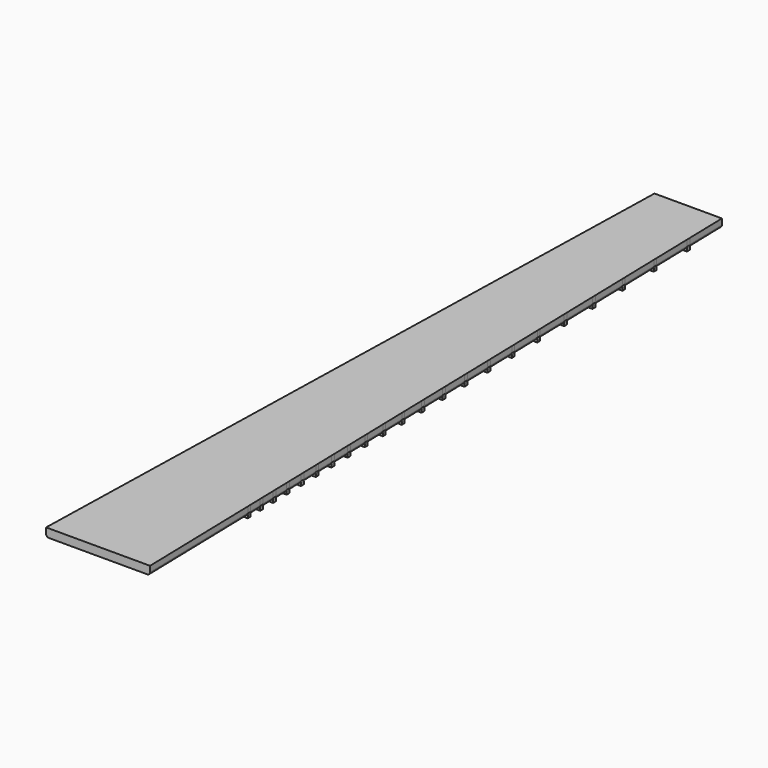
from build123d import *

# Parameters (mm, degrees)
F1_DEPTH = 6
F2_DEPTH = 1.5
F3_R     = 2
F5_R     = 1
F5_2_R   = 1
F5_3_R   = 1
F5_4_R   = 1
F5_5_R   = 1
F5_6_R   = 1
F5_7_R   = 1
F5_8_R   = 1
F5_9_R   = 1
F5_10_R  = 1
F5_11_R  = 1
F5_12_R  = 1
F5_13_R  = 1
F5_14_R  = 1
F5_15_R  = 1
F5_16_R  = 1
F5_17_R  = 1
F5_18_R  = 1
F5_19_R  = 1
F5_20_R  = 1
F5_21_R  = 1
F5_22_R  = 1


with BuildPart() as f1:
    # F0 (on Top) → F1 (new body)
    with BuildSketch(Plane.XY):
        Polygon((24, 525), (0, 525), (-24, 525), (-24.7296342857, 495.534), (0, 495.534), (24.7296342857, 495.534), align=None)
        Polygon((0, 495.534), (-24.7296342857, 495.534), (-24.794416381, 492.9178), (0, 492.9178), (24.794416381, 492.9178), (24.7296342857, 495.534), align=None)
        Polygon((0, 492.9178), (-24.794416381, 492.9178), (-25.4830944762, 465.1058), (0, 465.1058), (25.4830944762, 465.1058), (24.794416381, 492.9178), align=None)
        Polygon((0, 465.1058), (-25.4830944762, 465.1058), (-25.5478765714, 462.4896), (0, 462.4896), (25.5478765714, 462.4896), (25.4830944762, 465.1058), align=None)
        Polygon((0, 462.4896), (-25.5478765714, 462.4896), (-26.1979013333, 436.2386), (0, 436.2386), (26.1979013333, 436.2386), (25.5478765714, 462.4896), align=None)
        Polygon((0, 436.2386), (-26.1979013333, 436.2386), (-26.2626834286, 433.6224), (0, 433.6224), (26.2626834286, 433.6224), (26.1979013333, 436.2386), align=None)
        Polygon((0, 433.6224), (-26.2626834286, 433.6224), (-26.8762339048, 408.8444), (0, 408.8444), (26.8762339048, 408.8444), (26.2626834286, 433.6224), align=None)
        Polygon((0, 408.8444), (-26.8762339048, 408.8444), (-26.941016, 406.2282), (0, 406.2282), (26.941016, 406.2282), (26.8762339048, 408.8444), align=None)
        Polygon((0, 406.2282), (-26.941016, 406.2282), (-27.5201226667, 382.8412), (0, 382.8412), (27.5201226667, 382.8412), (26.941016, 406.2282), align=None)
        Polygon((0, 382.8412), (-27.5201226667, 382.8412), (-27.5849047619, 380.225), (0, 380.225), (27.5849047619, 380.225), (27.5201226667, 382.8412), align=None)
        Polygon((0, 380.225), (-27.5849047619, 380.225), (-28.1315238095, 358.15), (0, 358.15), (28.1315238095, 358.15), (27.5849047619, 380.225), align=None)
        Polygon((0, 358.15), (-28.1315238095, 358.15), (-28.1963059048, 355.5338), (0, 355.5338), (28.1963059048, 355.5338), (28.1315238095, 358.15), align=None)
        Polygon((0, 355.5338), (-28.1963059048, 355.5338), (-28.7122449524, 334.6978), (0, 334.6978), (28.7122449524, 334.6978), (28.1963059048, 355.5338), align=None)
        Polygon((0, 334.6978), (-28.7122449524, 334.6978), (-28.7770270476, 332.0816), (0, 332.0816), (28.7770270476, 332.0816), (28.7122449524, 334.6978), align=None)
        Polygon((0, 332.0816), (-28.7770270476, 332.0816), (-29.2639946667, 312.4156), (0, 312.4156), (29.2639946667, 312.4156), (28.7770270476, 332.0816), align=None)
        Polygon((0, 312.4156), (-29.2639946667, 312.4156), (-29.3287767619, 309.7994), (0, 309.7994), (29.3287767619, 309.7994), (29.2639946667, 312.4156), align=None)
        Polygon((0, 309.7994), (-29.3287767619, 309.7994), (-29.7884072381, 291.2374), (0, 291.2374), (29.7884072381, 291.2374), (29.3287767619, 309.7994), align=None)
        Polygon((0, 291.2374), (-29.7884072381, 291.2374), (-29.8531893333, 288.6212), (0, 288.6212), (29.8531893333, 288.6212), (29.7884072381, 291.2374), align=None)
        Polygon((0, 288.6212), (-29.8531893333, 288.6212), (-30.2870426667, 271.1002), (0, 271.1002), (30.2870426667, 271.1002), (29.8531893333, 288.6212), align=None)
        Polygon((0, 271.1002), (-30.2870426667, 271.1002), (-30.3518247619, 268.484), (0, 268.484), (30.3518247619, 268.484), (30.2870426667, 271.1002), align=None)
        Polygon((0, 268.484), (-30.3518247619, 268.484), (-30.761312381, 251.947), (0, 251.947), (30.761312381, 251.947), (30.3518247619, 268.484), align=None)
        Polygon((0, 251.947), (-30.761312381, 251.947), (-30.8260895238, 249.331), (0, 249.331), (30.8260895238, 249.331), (30.761312381, 251.947), align=None)
        Polygon((0, 249.331), (-30.8260895238, 249.331), (-31.2125980952, 233.722), (0, 233.722), (31.2125980952, 233.722), (30.8260895238, 249.331), align=None)
        Polygon((0, 233.722), (-31.2125980952, 233.722), (-31.2773801905, 231.1058), (0, 231.1058), (31.2773801905, 231.1058), (31.2125980952, 233.722), align=None)
        Polygon((0, 231.1058), (-31.2773801905, 231.1058), (-31.6421973333, 216.3728), (0, 216.3728), (31.6421973333, 216.3728), (31.2773801905, 231.1058), align=None)
        Polygon((0, 216.3728), (-31.6421973333, 216.3728), (-31.7069794286, 213.7566), (0, 213.7566), (31.7069794286, 213.7566), (31.6421973333, 216.3728), align=None)
        Polygon((0, 213.7566), (-31.7069794286, 213.7566), (-32.0513184762, 199.8506), (0, 199.8506), (32.0513184762, 199.8506), (31.7069794286, 213.7566), align=None)
        Polygon((0, 199.8506), (-32.0513184762, 199.8506), (-32.1161005714, 197.2344), (0, 197.2344), (32.1161005714, 197.2344), (32.0513184762, 199.8506), align=None)
        Polygon((0, 197.2344), (-32.1161005714, 197.2344), (-32.4411253333, 184.1084), (0, 184.1084), (32.4411253333, 184.1084), (32.1161005714, 197.2344), align=None)
        Polygon((0, 184.1084), (-32.4411253333, 184.1084), (-32.5059024762, 181.4924), (0, 181.4924), (32.5059024762, 181.4924), (32.4411253333, 184.1084), align=None)
        Polygon((0, 181.4924), (-32.5059024762, 181.4924), (-32.8126777143, 169.1034), (0, 169.1034), (32.8126777143, 169.1034), (32.5059024762, 181.4924), align=None)
        Polygon((0, 169.1034), (-32.8126777143, 169.1034), (-32.8774548571, 166.4874), (0, 166.4874), (32.8774548571, 166.4874), (32.8126777143, 169.1034), align=None)
        Polygon((0, 166.4874), (-32.8774548571, 166.4874), (-33.1669958095, 154.7944), (0, 154.7944), (33.1669958095, 154.7944), (32.8774548571, 166.4874), align=None)
        Polygon((0, 154.7944), (-33.1669958095, 154.7944), (-33.2317729524, 152.1784), (0, 152.1784), (33.2317729524, 152.1784), (33.1669958095, 154.7944), align=None)
        Polygon((0, 152.1784), (-33.2317729524, 152.1784), (-33.5050700952, 141.1414), (0, 141.1414), (33.5050700952, 141.1414), (33.2317729524, 152.1784), align=None)
        Polygon((0, 141.1414), (-33.5050700952, 141.1414), (-33.5698472381, 138.5254), (0, 138.5254), (33.5698472381, 138.5254), (33.5050700952, 141.1414), align=None)
        Polygon((0, 138.5254), (-33.5698472381, 138.5254), (-33.8278167619, 128.1074), (0, 128.1074), (33.8278167619, 128.1074), (33.5698472381, 138.5254), align=None)
        Polygon((0, 128.1074), (-33.8278167619, 128.1074), (-33.8925939048, 125.4914), (0, 125.4914), (33.8925939048, 125.4914), (33.8278167619, 128.1074), align=None)
        Polygon((0, 125.4914), (-33.8925939048, 125.4914), (-34.1360777143, 115.6584), (0, 115.6584), (34.1360777143, 115.6584), (33.8925939048, 125.4914), align=None)
        Polygon((0, 115.6584), (-34.1360777143, 115.6584), (-34.2008548571, 113.0424), (0, 113.0424), (34.2008548571, 113.0424), (34.1360777143, 115.6584), align=None)
        Polygon((0, 113.0424), (-34.2008548571, 113.0424), (-34.4306948571, 103.7604), (0, 103.7604), (34.4306948571, 103.7604), (34.2008548571, 113.0424), align=None)
        Polygon((0, 103.7604), (-34.4306948571, 103.7604), (-34.495472, 101.1444), (0, 101.1444), (34.495472, 101.1444), (34.4306948571, 103.7604), align=None)
        Polygon((0, 101.1444), (-34.495472, 101.1444), (-34.7123862857, 92.3844), (0, 92.3844), (34.7123862857, 92.3844), (34.495472, 101.1444), align=None)
        Polygon((0, 92.3844), (-34.7123862857, 92.3844), (-34.7771634286, 89.7684), (0, 89.7684), (34.7771634286, 89.7684), (34.7123862857, 92.3844), align=None)
        Polygon((0, 89.7684), (-34.7771634286, 89.7684), (-37, 0), (0, 0), (37, 0), (34.7771634286, 89.7684), align=None)
    extrude(amount=F1_DEPTH)

    # F3
    f3_edges = [f1.edges().sort_by_distance(p)[0] for p in [
        (-30.5, 262.5, 0),
        (30.5, 262.5, 0),
    ]]
    fillet(f3_edges, radius=F3_R)


with BuildPart() as f2:
    # F0 (on Top) → F2 (new body, symmetric)
    with BuildSketch(Plane.XY):
        Polygon((0, 495.534), (-24.7296342857, 495.534), (-24.794416381, 492.9178), (0, 492.9178), (24.794416381, 492.9178), (24.7296342857, 495.534), align=None)
    extrude(amount=F2_DEPTH, both=True)


with BuildPart() as f2b:
    # F0 (on Top) → F2, piece 2 (new body, symmetric)
    with BuildSketch(Plane.XY):
        Polygon((0, 465.1058), (-25.4830944762, 465.1058), (-25.5478765714, 462.4896), (0, 462.4896), (25.5478765714, 462.4896), (25.4830944762, 465.1058), align=None)
    extrude(amount=F2_DEPTH, both=True)


with BuildPart() as f2c:
    # F0 (on Top) → F2, piece 3 (new body, symmetric)
    with BuildSketch(Plane.XY):
        Polygon((0, 436.2386), (-26.1979013333, 436.2386), (-26.2626834286, 433.6224), (0, 433.6224), (26.2626834286, 433.6224), (26.1979013333, 436.2386), align=None)
    extrude(amount=F2_DEPTH, both=True)


with BuildPart() as f2d:
    # F0 (on Top) → F2, piece 4 (new body, symmetric)
    with BuildSketch(Plane.XY):
        Polygon((0, 408.8444), (-26.8762339048, 408.8444), (-26.941016, 406.2282), (0, 406.2282), (26.941016, 406.2282), (26.8762339048, 408.8444), align=None)
    extrude(amount=F2_DEPTH, both=True)


with BuildPart() as f2e:
    # F0 (on Top) → F2, piece 5 (new body, symmetric)
    with BuildSketch(Plane.XY):
        Polygon((0, 382.8412), (-27.5201226667, 382.8412), (-27.5849047619, 380.225), (0, 380.225), (27.5849047619, 380.225), (27.5201226667, 382.8412), align=None)
    extrude(amount=F2_DEPTH, both=True)


with BuildPart() as f2f:
    # F0 (on Top) → F2, piece 6 (new body, symmetric)
    with BuildSketch(Plane.XY):
        Polygon((0, 358.15), (-28.1315238095, 358.15), (-28.1963059048, 355.5338), (0, 355.5338), (28.1963059048, 355.5338), (28.1315238095, 358.15), align=None)
    extrude(amount=F2_DEPTH, both=True)


with BuildPart() as f2g:
    # F0 (on Top) → F2, piece 7 (new body, symmetric)
    with BuildSketch(Plane.XY):
        Polygon((0, 334.6978), (-28.7122449524, 334.6978), (-28.7770270476, 332.0816), (0, 332.0816), (28.7770270476, 332.0816), (28.7122449524, 334.6978), align=None)
    extrude(amount=F2_DEPTH, both=True)


with BuildPart() as f2h:
    # F0 (on Top) → F2, piece 8 (new body, symmetric)
    with BuildSketch(Plane.XY):
        Polygon((0, 312.4156), (-29.2639946667, 312.4156), (-29.3287767619, 309.7994), (0, 309.7994), (29.3287767619, 309.7994), (29.2639946667, 312.4156), align=None)
    extrude(amount=F2_DEPTH, both=True)


with BuildPart() as f2i:
    # F0 (on Top) → F2, piece 9 (new body, symmetric)
    with BuildSketch(Plane.XY):
        Polygon((0, 291.2374), (-29.7884072381, 291.2374), (-29.8531893333, 288.6212), (0, 288.6212), (29.8531893333, 288.6212), (29.7884072381, 291.2374), align=None)
    extrude(amount=F2_DEPTH, both=True)


with BuildPart() as f2j:
    # F0 (on Top) → F2, piece 10 (new body, symmetric)
    with BuildSketch(Plane.XY):
        Polygon((0, 271.1002), (-30.2870426667, 271.1002), (-30.3518247619, 268.484), (0, 268.484), (30.3518247619, 268.484), (30.2870426667, 271.1002), align=None)
    extrude(amount=F2_DEPTH, both=True)


with BuildPart() as f2k:
    # F0 (on Top) → F2, piece 11 (new body, symmetric)
    with BuildSketch(Plane.XY):
        Polygon((0, 251.947), (-30.761312381, 251.947), (-30.8260895238, 249.331), (0, 249.331), (30.8260895238, 249.331), (30.761312381, 251.947), align=None)
    extrude(amount=F2_DEPTH, both=True)


with BuildPart() as f2l:
    # F0 (on Top) → F2, piece 12 (new body, symmetric)
    with BuildSketch(Plane.XY):
        Polygon((0, 233.722), (-31.2125980952, 233.722), (-31.2773801905, 231.1058), (0, 231.1058), (31.2773801905, 231.1058), (31.2125980952, 233.722), align=None)
    extrude(amount=F2_DEPTH, both=True)


with BuildPart() as f2m:
    # F0 (on Top) → F2, piece 13 (new body, symmetric)
    with BuildSketch(Plane.XY):
        Polygon((0, 216.3728), (-31.6421973333, 216.3728), (-31.7069794286, 213.7566), (0, 213.7566), (31.7069794286, 213.7566), (31.6421973333, 216.3728), align=None)
    extrude(amount=F2_DEPTH, both=True)


with BuildPart() as f2n:
    # F0 (on Top) → F2, piece 14 (new body, symmetric)
    with BuildSketch(Plane.XY):
        Polygon((0, 199.8506), (-32.0513184762, 199.8506), (-32.1161005714, 197.2344), (0, 197.2344), (32.1161005714, 197.2344), (32.0513184762, 199.8506), align=None)
    extrude(amount=F2_DEPTH, both=True)


with BuildPart() as f2o:
    # F0 (on Top) → F2, piece 15 (new body, symmetric)
    with BuildSketch(Plane.XY):
        Polygon((0, 184.1084), (-32.4411253333, 184.1084), (-32.5059024762, 181.4924), (0, 181.4924), (32.5059024762, 181.4924), (32.4411253333, 184.1084), align=None)
    extrude(amount=F2_DEPTH, both=True)


with BuildPart() as f2p:
    # F0 (on Top) → F2, piece 16 (new body, symmetric)
    with BuildSketch(Plane.XY):
        Polygon((0, 169.1034), (-32.8126777143, 169.1034), (-32.8774548571, 166.4874), (0, 166.4874), (32.8774548571, 166.4874), (32.8126777143, 169.1034), align=None)
    extrude(amount=F2_DEPTH, both=True)


with BuildPart() as f2q:
    # F0 (on Top) → F2, piece 17 (new body, symmetric)
    with BuildSketch(Plane.XY):
        Polygon((0, 154.7944), (-33.1669958095, 154.7944), (-33.2317729524, 152.1784), (0, 152.1784), (33.2317729524, 152.1784), (33.1669958095, 154.7944), align=None)
    extrude(amount=F2_DEPTH, both=True)


with BuildPart() as f2r:
    # F0 (on Top) → F2, piece 18 (new body, symmetric)
    with BuildSketch(Plane.XY):
        Polygon((0, 141.1414), (-33.5050700952, 141.1414), (-33.5698472381, 138.5254), (0, 138.5254), (33.5698472381, 138.5254), (33.5050700952, 141.1414), align=None)
    extrude(amount=F2_DEPTH, both=True)


with BuildPart() as f2s:
    # F0 (on Top) → F2, piece 19 (new body, symmetric)
    with BuildSketch(Plane.XY):
        Polygon((0, 128.1074), (-33.8278167619, 128.1074), (-33.8925939048, 125.4914), (0, 125.4914), (33.8925939048, 125.4914), (33.8278167619, 128.1074), align=None)
    extrude(amount=F2_DEPTH, both=True)


with BuildPart() as f2t:
    # F0 (on Top) → F2, piece 20 (new body, symmetric)
    with BuildSketch(Plane.XY):
        Polygon((0, 92.3844), (-34.7123862857, 92.3844), (-34.7771634286, 89.7684), (0, 89.7684), (34.7771634286, 89.7684), (34.7123862857, 92.3844), align=None)
    extrude(amount=F2_DEPTH, both=True)


with BuildPart() as f2u:
    # F0 (on Top) → F2, piece 21 (new body, symmetric)
    with BuildSketch(Plane.XY):
        Polygon((0, 103.7604), (-34.4306948571, 103.7604), (-34.495472, 101.1444), (0, 101.1444), (34.495472, 101.1444), (34.4306948571, 103.7604), align=None)
    extrude(amount=F2_DEPTH, both=True)


with BuildPart() as f2v:
    # F0 (on Top) → F2, piece 22 (new body, symmetric)
    with BuildSketch(Plane.XY):
        Polygon((0, 115.6584), (-34.1360777143, 115.6584), (-34.2008548571, 113.0424), (0, 113.0424), (34.2008548571, 113.0424), (34.1360777143, 115.6584), align=None)
    extrude(amount=F2_DEPTH, both=True)


with BuildPart() as f1_1:
    add(f1.part)

    # F4: cut F2t, F2u, F2v, F2s, F2r, F2q, F2p, F2o, F2n, F2m, F2l, F2k, F2j, F2i, F2h, F2g, F2f, F2e, F2d, F2c, F2b, F2
    add(f2t.part, mode=Mode.SUBTRACT)
    add(f2u.part, mode=Mode.SUBTRACT)
    add(f2v.part, mode=Mode.SUBTRACT)
    add(f2s.part, mode=Mode.SUBTRACT)
    add(f2r.part, mode=Mode.SUBTRACT)
    add(f2q.part, mode=Mode.SUBTRACT)
    add(f2p.part, mode=Mode.SUBTRACT)
    add(f2o.part, mode=Mode.SUBTRACT)
    add(f2n.part, mode=Mode.SUBTRACT)
    add(f2m.part, mode=Mode.SUBTRACT)
    add(f2l.part, mode=Mode.SUBTRACT)
    add(f2k.part, mode=Mode.SUBTRACT)
    add(f2j.part, mode=Mode.SUBTRACT)
    add(f2i.part, mode=Mode.SUBTRACT)
    add(f2h.part, mode=Mode.SUBTRACT)
    add(f2g.part, mode=Mode.SUBTRACT)
    add(f2f.part, mode=Mode.SUBTRACT)
    add(f2e.part, mode=Mode.SUBTRACT)
    add(f2d.part, mode=Mode.SUBTRACT)
    add(f2c.part, mode=Mode.SUBTRACT)
    add(f2b.part, mode=Mode.SUBTRACT)
    add(f2.part, mode=Mode.SUBTRACT)


with BuildPart() as f2_1:
    add(f2.part)

    # F5
    f5_edges = [f2_1.edges().sort_by_distance(p)[0] for p in [
        (-24.762025, 494.2259, 1.5),
        (24.762025, 494.2259, 1.5),
    ]]
    fillet(f5_edges, radius=F5_R)


with BuildPart() as f2b_1:
    add(f2b.part)

    # F5#2
    f5_2_edges = [f2b_1.edges().sort_by_distance(p)[0] for p in [
        (25.515486, 463.7977, 1.5),
        (-25.515486, 463.7977, 1.5),
    ]]
    fillet(f5_2_edges, radius=F5_2_R)


with BuildPart() as f2c_1:
    add(f2c.part)

    # F5#3
    f5_3_edges = [f2c_1.edges().sort_by_distance(p)[0] for p in [
        (-26.230292, 434.9305, 1.5),
        (26.230292, 434.9305, 1.5),
    ]]
    fillet(f5_3_edges, radius=F5_3_R)


with BuildPart() as f2d_1:
    add(f2d.part)

    # F5#4
    f5_4_edges = [f2d_1.edges().sort_by_distance(p)[0] for p in [
        (-26.908625, 407.5363, 1.5),
        (26.908625, 407.5363, 1.5),
    ]]
    fillet(f5_4_edges, radius=F5_4_R)


with BuildPart() as f2e_1:
    add(f2e.part)

    # F5#5
    f5_5_edges = [f2e_1.edges().sort_by_distance(p)[0] for p in [
        (27.552514, 381.5331, 1.5),
        (-27.552514, 381.5331, 1.5),
    ]]
    fillet(f5_5_edges, radius=F5_5_R)


with BuildPart() as f2f_1:
    add(f2f.part)

    # F5#6
    f5_6_edges = [f2f_1.edges().sort_by_distance(p)[0] for p in [
        (-28.163915, 356.8419, 1.5),
        (28.163915, 356.8419, 1.5),
    ]]
    fillet(f5_6_edges, radius=F5_6_R)


with BuildPart() as f2g_1:
    add(f2g.part)

    # F5#7
    f5_7_edges = [f2g_1.edges().sort_by_distance(p)[0] for p in [
        (28.744636, 333.3897, 1.5),
        (-28.744636, 333.3897, 1.5),
    ]]
    fillet(f5_7_edges, radius=F5_7_R)


with BuildPart() as f2h_1:
    add(f2h.part)

    # F5#8
    f5_8_edges = [f2h_1.edges().sort_by_distance(p)[0] for p in [
        (-29.296386, 311.1075, 1.5),
        (29.296386, 311.1075, 1.5),
    ]]
    fillet(f5_8_edges, radius=F5_8_R)


with BuildPart() as f2i_1:
    add(f2i.part)

    # F5#9
    f5_9_edges = [f2i_1.edges().sort_by_distance(p)[0] for p in [
        (29.820798, 289.9293, 1.5),
        (-29.820798, 289.9293, 1.5),
    ]]
    fillet(f5_9_edges, radius=F5_9_R)


with BuildPart() as f2j_1:
    add(f2j.part)

    # F5#10
    f5_10_edges = [f2j_1.edges().sort_by_distance(p)[0] for p in [
        (-30.319434, 269.7921, 1.5),
        (30.319434, 269.7921, 1.5),
    ]]
    fillet(f5_10_edges, radius=F5_10_R)


with BuildPart() as f2k_1:
    add(f2k.part)

    # F5#11
    f5_11_edges = [f2k_1.edges().sort_by_distance(p)[0] for p in [
        (30.793701, 250.639, 1.5),
        (-30.793701, 250.639, 1.5),
    ]]
    fillet(f5_11_edges, radius=F5_11_R)


with BuildPart() as f2l_1:
    add(f2l.part)

    # F5#12
    f5_12_edges = [f2l_1.edges().sort_by_distance(p)[0] for p in [
        (-31.244989, 232.4139, 1.5),
        (31.244989, 232.4139, 1.5),
    ]]
    fillet(f5_12_edges, radius=F5_12_R)


with BuildPart() as f2m_1:
    add(f2m.part)

    # F5#13
    f5_13_edges = [f2m_1.edges().sort_by_distance(p)[0] for p in [
        (-31.674588, 215.0647, 1.5),
        (31.674588, 215.0647, 1.5),
    ]]
    fillet(f5_13_edges, radius=F5_13_R)


with BuildPart() as f2n_1:
    add(f2n.part)

    # F5#14
    f5_14_edges = [f2n_1.edges().sort_by_distance(p)[0] for p in [
        (32.08371, 198.5425, 1.5),
        (-32.08371, 198.5425, 1.5),
    ]]
    fillet(f5_14_edges, radius=F5_14_R)


with BuildPart() as f2o_1:
    add(f2o.part)

    # F5#15
    f5_15_edges = [f2o_1.edges().sort_by_distance(p)[0] for p in [
        (-32.473514, 182.8004, 1.5),
        (32.473514, 182.8004, 1.5),
    ]]
    fillet(f5_15_edges, radius=F5_15_R)


with BuildPart() as f2p_1:
    add(f2p.part)

    # F5#16
    f5_16_edges = [f2p_1.edges().sort_by_distance(p)[0] for p in [
        (32.845066, 167.7954, 1.5),
        (-32.845066, 167.7954, 1.5),
    ]]
    fillet(f5_16_edges, radius=F5_16_R)


with BuildPart() as f2q_1:
    add(f2q.part)

    # F5#17
    f5_17_edges = [f2q_1.edges().sort_by_distance(p)[0] for p in [
        (-33.199384, 153.4864, 1.5),
        (33.199384, 153.4864, 1.5),
    ]]
    fillet(f5_17_edges, radius=F5_17_R)


with BuildPart() as f2r_1:
    add(f2r.part)

    # F5#18
    f5_18_edges = [f2r_1.edges().sort_by_distance(p)[0] for p in [
        (33.537459, 139.8334, 1.5),
        (-33.537459, 139.8334, 1.5),
    ]]
    fillet(f5_18_edges, radius=F5_18_R)


with BuildPart() as f2s_1:
    add(f2s.part)

    # F5#19
    f5_19_edges = [f2s_1.edges().sort_by_distance(p)[0] for p in [
        (-33.860205, 126.7994, 1.5),
        (33.860205, 126.7994, 1.5),
    ]]
    fillet(f5_19_edges, radius=F5_19_R)


with BuildPart() as f2v_1:
    add(f2v.part)

    # F5#20
    f5_20_edges = [f2v_1.edges().sort_by_distance(p)[0] for p in [
        (34.168466, 114.3504, 1.5),
        (-34.168466, 114.3504, 1.5),
    ]]
    fillet(f5_20_edges, radius=F5_20_R)


with BuildPart() as f2u_1:
    add(f2u.part)

    # F5#21
    f5_21_edges = [f2u_1.edges().sort_by_distance(p)[0] for p in [
        (34.463083, 102.4524, 1.5),
        (-34.463083, 102.4524, 1.5),
    ]]
    fillet(f5_21_edges, radius=F5_21_R)


with BuildPart() as f2t_1:
    add(f2t.part)

    # F5#22
    f5_22_edges = [f2t_1.edges().sort_by_distance(p)[0] for p in [
        (34.744775, 91.0764, 1.5),
        (-34.744775, 91.0764, 1.5),
    ]]
    fillet(f5_22_edges, radius=F5_22_R)


solid = Compound([f1_1.part, f2_1.part, f2b_1.part, f2c_1.part, f2d_1.part, f2e_1.part, f2f_1.part, f2g_1.part, f2h_1.part, f2i_1.part, f2j_1.part, f2k_1.part, f2l_1.part, f2m_1.part, f2n_1.part, f2o_1.part, f2p_1.part, f2q_1.part, f2r_1.part, f2s_1.part, f2v_1.part, f2u_1.part, f2t_1.part])
